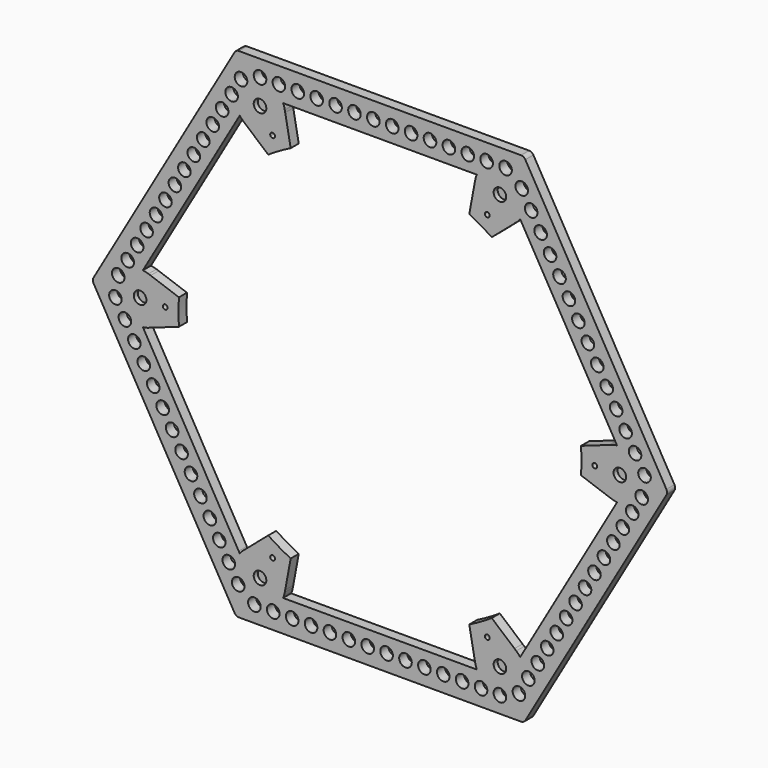
from build123d import *

# Parameters (mm, degrees)
F0_R     = 3.175
F1_DEPTH = 5.08
F2_DEPTH = 2.54
F3_R     = 3.175
F4_DEPTH = 5.08
F5_R     = 101.6
F6_DEPTH = 5.08


with BuildPart() as f1:
    # F0 (on Front) → F1 (new body)
    with BuildSketch(Plane.XZ):
        with BuildLine():
            Line((71.1237796615, 125.73), (-71.1237796615, 125.73))
            ThreePointArc((-71.1237796615, 125.73), (-72.3937796615, 125.3897045256), (-73.3234841871, 124.46))
            Line((-73.3234841871, 124.46), (-144.4472638486, 1.27))
            ThreePointArc((-144.4472638486, 1.27), (-144.7875593229, 0), (-144.4472638486, -1.27))
            Line((-144.4472638486, -1.27), (-73.3234841871, -124.46))
            ThreePointArc((-73.3234841871, -124.46), (-72.3937796615, -125.3897045256), (-71.1237796615, -125.73))
            Line((-71.1237796615, -125.73), (71.1237796615, -125.73))
            ThreePointArc((71.1237796615, -125.73), (72.3937796615, -125.3897045256), (73.3234841871, -124.46))
            Line((73.3234841871, -124.46), (144.4472638486, -1.27))
            ThreePointArc((144.4472638486, -1.27), (144.7875593229, 0), (144.4472638486, 1.27))
            Line((144.4472638486, 1.27), (73.3234841871, 124.46))
            ThreePointArc((73.3234841871, 124.46), (72.3937796615, 125.3897045256), (71.1237796615, 125.73))
        make_face()
        with BuildLine():
            Line((-48.8521321892, 109.855), (-47.7918744543, 109.855))
            Line((-47.7918744543, 109.855), (47.7918744543, 109.855))
            Line((47.7918744543, 109.855), (48.8521321892, 109.855))
            ThreePointArc((48.8521321892, 109.855), (63.0866069292, 117.2071101742), (73.1918744543, 104.775))
            ThreePointArc((73.1918744543, 104.775), (72.5557639253, 100.8060491521), (70.7111546382, 97.2346875048))
            Line((70.7111546382, 97.2346875048), (71.2412835056, 96.3164773719))
            Line((71.2412835056, 96.3164773719), (119.0331579599, 13.5385226281))
            Line((119.0331579599, 13.5385226281), (119.5632868273, 12.6203124952))
            ThreePointArc((119.5632868273, 12.6203124952), (129.446908235, 9.4691569961), (133.6837489087, 0))
            ThreePointArc((133.6837489087, 0), (129.446908235, -9.4691569961), (119.5632868273, -12.6203124952))
            Line((119.5632868273, -12.6203124952), (119.0331579599, -13.5385226281))
            Line((119.0331579599, -13.5385226281), (71.2412835056, -96.3164773719))
            Line((71.2412835056, -96.3164773719), (70.7111546382, -97.2346875048))
            ThreePointArc((70.7111546382, -97.2346875048), (72.5557639253, -100.8060491521), (73.1918744543, -104.775))
            ThreePointArc((73.1918744543, -104.775), (63.0866069292, -117.2071101742), (48.8521321892, -109.855))
            Line((48.8521321892, -109.855), (47.7918744543, -109.855))
            Line((47.7918744543, -109.855), (-47.7918744543, -109.855))
            Line((-47.7918744543, -109.855), (-48.8521321892, -109.855))
            ThreePointArc((-48.8521321892, -109.855), (-66.8418744543, -115.7735226281), (-70.7111546382, -97.2346875048))
            Line((-70.7111546382, -97.2346875048), (-71.2412835056, -96.3164773719))
            Line((-71.2412835056, -96.3164773719), (-119.0331579599, -13.5385226281))
            Line((-119.0331579599, -13.5385226281), (-119.5632868273, -12.6203124952))
            ThreePointArc((-119.5632868273, -12.6203124952), (-133.6837489087, 0), (-119.5632868273, 12.6203124952))
            Line((-119.5632868273, 12.6203124952), (-119.0331579599, 13.5385226281))
            Line((-119.0331579599, 13.5385226281), (-71.2412835056, 96.3164773719))
            Line((-71.2412835056, 96.3164773719), (-70.7111546382, 97.2346875048))
            ThreePointArc((-70.7111546382, 97.2346875048), (-66.8418744543, 115.7735226281), (-48.8521321892, 109.855))
        make_face(mode=Mode.SUBTRACT)
        with BuildLine():
            ThreePointArc((-48.0057012099, 107.0956632047), (-48.3502751082, 108.4994550364), (-48.8521321892, 109.855))
            Line((-48.8521321892, 109.855), (-63.4248138218, 109.855))
            Line((-63.4248138218, 109.855), (-70.7111546382, 97.2346875048))
            ThreePointArc((-70.7111546382, 97.2346875048), (-69.7881468042, 96.1222940419), (-68.7447143655, 95.1219883766))
            ThreePointArc((-68.7447143655, 95.1219883766), (-67.8242228731, 94.4054934222), (-66.8418744543, 93.7764773719))
            ThreePointArc((-66.8418744543, 93.7764773719), (-61.0951244543, 92.0893352781), (-55.2142090811, 93.223539131))
            ThreePointArc((-55.2142090811, 93.223539131), (-54.7451244543, 94.8213370216), (-53.1268485776, 94.4286772796))
            ThreePointArc((-53.1268485776, 94.4286772796), (-49.2041415413, 98.9545974639), (-47.7918744543, 104.775))
            ThreePointArc((-47.7918744543, 104.775), (-47.8454441239, 105.9402467111), (-48.0057012099, 107.0956632047))
        make_face()
        with Locations((-60.4918744543, 104.775)):
            Circle(F0_R, mode=Mode.SUBTRACT)
        with BuildLine():
            Line((63.4248138218, 109.855), (48.8521321892, 109.855))
            ThreePointArc((48.8521321892, 109.855), (48.3502751082, 108.4994550364), (48.0057012099, 107.0956632047))
            ThreePointArc((48.0057012099, 107.0956632047), (47.8454441239, 105.9402467111), (47.7918744543, 104.775))
            ThreePointArc((47.7918744543, 104.775), (49.2041415412, 98.9545974639), (53.1268485776, 94.4286772796))
            ThreePointArc((53.1268485776, 94.4286772796), (54.4817373162, 94.9341195814), (55.3483744543, 93.7764773719))
            ThreePointArc((55.3483744543, 93.7764773719), (55.3143534472, 93.4919861394), (55.2142090811, 93.223539131))
            ThreePointArc((55.2142090811, 93.223539131), (61.0951244543, 92.0893352781), (66.8418744543, 93.7764773719))
            ThreePointArc((66.8418744543, 93.7764773719), (67.8242228731, 94.4054934222), (68.7447143655, 95.1219883766))
            ThreePointArc((68.7447143655, 95.1219883766), (69.7881468042, 96.1222940419), (70.7111546382, 97.2346875048))
            Line((70.7111546382, 97.2346875048), (63.4248138218, 109.855))
        make_face()
        with Locations((60.4918744543, 104.775)):
            Circle(F0_R, mode=Mode.SUBTRACT)
        with BuildLine():
            ThreePointArc((-68.7447143655, -95.1219883766), (-69.7881468042, -96.1222940419), (-70.7111546382, -97.2346875048))
            Line((-70.7111546382, -97.2346875048), (-63.4248138218, -109.855))
            Line((-63.4248138218, -109.855), (-48.8521321892, -109.855))
            ThreePointArc((-48.8521321892, -109.855), (-48.3502751082, -108.4994550364), (-48.0057012099, -107.0956632047))
            ThreePointArc((-48.0057012099, -107.0956632047), (-47.8454441239, -105.9402467111), (-47.7918744543, -104.775))
            ThreePointArc((-47.7918744543, -104.775), (-49.2041415412, -98.9545974639), (-53.1268485776, -94.4286772796))
            ThreePointArc((-53.1268485776, -94.4286772796), (-54.7451244543, -94.8213370216), (-55.2142090811, -93.223539131))
            ThreePointArc((-55.2142090811, -93.223539131), (-61.0951244543, -92.0893352781), (-66.8418744543, -93.7764773719))
            ThreePointArc((-66.8418744543, -93.7764773719), (-67.8242228731, -94.4054934222), (-68.7447143655, -95.1219883766))
        make_face()
        with Locations((-60.4918744543, -104.775)):
            Circle(F0_R, mode=Mode.SUBTRACT)
        with BuildLine():
            Line((63.4248138218, -109.855), (70.7111546382, -97.2346875048))
            ThreePointArc((70.7111546382, -97.2346875048), (69.7881468042, -96.1222940419), (68.7447143655, -95.1219883766))
            ThreePointArc((68.7447143655, -95.1219883766), (67.8242228731, -94.4054934222), (66.8418744543, -93.7764773719))
            ThreePointArc((66.8418744543, -93.7764773719), (61.0951244543, -92.0893352781), (55.2142090811, -93.223539131))
            ThreePointArc((55.2142090811, -93.223539131), (55.3143534472, -93.4919861394), (55.3483744543, -93.7764773719))
            ThreePointArc((55.3483744543, -93.7764773719), (54.4817373162, -94.9341195814), (53.1268485776, -94.4286772796))
            ThreePointArc((53.1268485776, -94.4286772796), (49.2041415413, -98.9545974639), (47.7918744543, -104.775))
            ThreePointArc((47.7918744543, -104.775), (47.8454441239, -105.9402467111), (48.0057012099, -107.0956632047))
            ThreePointArc((48.0057012099, -107.0956632047), (48.3502751082, -108.4994550364), (48.8521321892, -109.855))
            Line((48.8521321892, -109.855), (63.4248138218, -109.855))
        make_face()
        with Locations((60.4918744543, -104.775)):
            Circle(F0_R, mode=Mode.SUBTRACT)
        with BuildLine():
            Line((126.8496276437, 0), (119.5632868273, 12.6203124952))
            ThreePointArc((119.5632868273, 12.6203124952), (118.1384219124, 12.3771609945), (116.7504155754, 11.9736748281))
            ThreePointArc((116.7504155754, 11.9736748281), (115.669666997, 11.5347532889), (114.6337489087, 10.9985226281))
            ThreePointArc((114.6337489087, 10.9985226281), (110.2992659956, 6.8652621858), (108.3410576587, 1.2051381486))
            ThreePointArc((108.3410576587, 1.2051381486), (109.1568998856, 0.832616131), (109.4902489087, 0))
            ThreePointArc((109.4902489087, 0), (109.1568998856, -0.832616131), (108.3410576587, -1.2051381486))
            ThreePointArc((108.3410576587, -1.2051381486), (110.2992659956, -6.8652621858), (114.6337489087, -10.9985226281))
            ThreePointArc((114.6337489087, -10.9985226281), (115.669666997, -11.5347532889), (116.7504155754, -11.9736748281))
            ThreePointArc((116.7504155754, -11.9736748281), (118.1384219124, -12.3771609945), (119.5632868273, -12.6203124952))
            Line((119.5632868273, -12.6203124952), (126.8496276437, 0))
        make_face()
        with Locations((120.9837489087, 0)):
            Circle(F0_R, mode=Mode.SUBTRACT)
        with BuildLine():
            ThreePointArc((-116.7504155754, 11.9736748281), (-118.1384219124, 12.3771609945), (-119.5632868273, 12.6203124952))
            Line((-119.5632868273, 12.6203124952), (-126.8496276437, 0))
            Line((-126.8496276437, 0), (-119.5632868273, -12.6203124952))
            ThreePointArc((-119.5632868273, -12.6203124952), (-118.1384219124, -12.3771609945), (-116.7504155754, -11.9736748281))
            ThreePointArc((-116.7504155754, -11.9736748281), (-115.669666997, -11.5347532889), (-114.6337489087, -10.9985226281))
            ThreePointArc((-114.6337489087, -10.9985226281), (-110.2992659956, -6.8652621858), (-108.3410576587, -1.2051381486))
            ThreePointArc((-108.3410576587, -1.2051381486), (-109.4902489087, 0), (-108.3410576587, 1.2051381486))
            ThreePointArc((-108.3410576587, 1.2051381486), (-110.2992659956, 6.8652621858), (-114.6337489087, 10.9985226281))
            ThreePointArc((-114.6337489087, 10.9985226281), (-115.669666997, 11.5347532889), (-116.7504155754, 11.9736748281))
        make_face()
        with Locations((-120.9837489087, 0)):
            Circle(F0_R, mode=Mode.SUBTRACT)
        with BuildLine():
            ThreePointArc((73.1918744543, 104.775), (63.0866069292, 117.2071101742), (48.8521321892, 109.855))
            Line((48.8521321892, 109.855), (63.4248138218, 109.855))
            Line((63.4248138218, 109.855), (70.7111546382, 97.2346875048))
            ThreePointArc((70.7111546382, 97.2346875048), (72.5557639253, 100.8060491521), (73.1918744543, 104.775))
        make_face()
        with BuildLine():
            Line((-63.4248138218, 109.855), (-48.8521321892, 109.855))
            ThreePointArc((-48.8521321892, 109.855), (-66.8418744543, 115.7735226281), (-70.7111546382, 97.2346875048))
            Line((-70.7111546382, 97.2346875048), (-63.4248138218, 109.855))
        make_face()
        with BuildLine():
            Line((-126.8496276437, 0), (-119.5632868273, 12.6203124952))
            ThreePointArc((-119.5632868273, 12.6203124952), (-133.6837489087, 0), (-119.5632868273, -12.6203124952))
            Line((-119.5632868273, -12.6203124952), (-126.8496276437, 0))
        make_face()
        with BuildLine():
            Line((-63.4248138218, -109.855), (-70.7111546382, -97.2346875048))
            ThreePointArc((-70.7111546382, -97.2346875048), (-66.8418744543, -115.7735226281), (-48.8521321892, -109.855))
            Line((-48.8521321892, -109.855), (-63.4248138218, -109.855))
        make_face()
        with BuildLine():
            ThreePointArc((73.1918744543, -104.775), (72.5557639253, -100.8060491521), (70.7111546382, -97.2346875048))
            Line((70.7111546382, -97.2346875048), (63.4248138218, -109.855))
            Line((63.4248138218, -109.855), (48.8521321892, -109.855))
            ThreePointArc((48.8521321892, -109.855), (63.0866069292, -117.2071101742), (73.1918744543, -104.775))
        make_face()
        with BuildLine():
            ThreePointArc((133.6837489087, 0), (129.446908235, 9.4691569961), (119.5632868273, 12.6203124952))
            Line((119.5632868273, 12.6203124952), (126.8496276437, 0))
            Line((126.8496276437, 0), (119.5632868273, -12.6203124952))
            ThreePointArc((119.5632868273, -12.6203124952), (129.446908235, -9.4691569961), (133.6837489087, 0))
        make_face()
        with BuildLine():
            Line((114.6337489087, 10.9985226281), (115.647156802, 11.5836139481))
            Line((115.647156802, 11.5836139481), (99.817082242, 5.986837414))
            ThreePointArc((99.817082242, 5.986837414), (95.5837489087, 0), (99.817082242, -5.986837414))
            Line((99.817082242, -5.986837414), (115.647156802, -11.5836139481))
            Line((115.647156802, -11.5836139481), (114.6337489087, -10.9985226281))
            ThreePointArc((114.6337489087, -10.9985226281), (110.2992659956, -6.8652621858), (108.3410576587, -1.2051381486))
            ThreePointArc((108.3410576587, -1.2051381486), (107.0772489087, 0), (108.3410576587, 1.2051381486))
            ThreePointArc((108.3410576587, 1.2051381486), (110.2992659956, 6.8652621858), (114.6337489087, 10.9985226281))
        make_face()
        with BuildLine():
            Line((66.8418744543, -93.7764773719), (67.8552823477, -94.361568692))
            Line((67.8552823477, -94.361568692), (55.0932944099, -83.4507102462))
            ThreePointArc((55.0932944099, -83.4507102462), (47.7918744543, -82.7779547439), (44.7237878321, -89.4375476603))
            Line((44.7237878321, -89.4375476603), (47.7918744543, -105.94518264))
            Line((47.7918744543, -105.94518264), (47.7918744543, -104.775))
            ThreePointArc((47.7918744543, -104.775), (49.2041415413, -98.9545974639), (53.1268485776, -94.4286772796))
            ThreePointArc((53.1268485776, -94.4286772796), (53.5386244543, -92.7316177223), (55.2142090811, -93.223539131))
            ThreePointArc((55.2142090811, -93.223539131), (61.0951244543, -92.0893352781), (66.8418744543, -93.7764773719))
        make_face()
        with BuildLine():
            Line((-55.0932944099, -83.4507102462), (-67.8552823477, -94.361568692))
            Line((-67.8552823477, -94.361568692), (-66.8418744543, -93.7764773719))
            ThreePointArc((-66.8418744543, -93.7764773719), (-61.0951244543, -92.0893352781), (-55.2142090811, -93.223539131))
            ThreePointArc((-55.2142090811, -93.223539131), (-53.8573832218, -92.6039983791), (-52.9353744543, -93.7764773719))
            ThreePointArc((-52.9353744543, -93.7764773719), (-52.9842322449, -94.1163402338), (-53.1268485776, -94.4286772796))
            ThreePointArc((-53.1268485776, -94.4286772796), (-49.2041415412, -98.9545974639), (-47.7918744543, -104.775))
            Line((-47.7918744543, -104.775), (-47.7918744543, -105.94518264))
            Line((-47.7918744543, -105.94518264), (-44.7237878321, -89.4375476603))
            ThreePointArc((-44.7237878321, -89.4375476603), (-47.7918744543, -82.7779547439), (-55.0932944099, -83.4507102462))
        make_face()
        with BuildLine():
            Line((-99.817082242, 5.986837414), (-115.647156802, 11.5836139481))
            Line((-115.647156802, 11.5836139481), (-114.6337489087, 10.9985226281))
            ThreePointArc((-114.6337489087, 10.9985226281), (-110.2992659956, 6.8652621858), (-108.3410576587, 1.2051381486))
            ThreePointArc((-108.3410576587, 1.2051381486), (-107.4511327777, 0.8731509769), (-107.0772489087, 0))
            ThreePointArc((-107.0772489087, 0), (-107.4511327777, -0.8731509769), (-108.3410576587, -1.2051381486))
            ThreePointArc((-108.3410576587, -1.2051381486), (-110.2992659956, -6.8652621858), (-114.6337489087, -10.9985226281))
            Line((-114.6337489087, -10.9985226281), (-115.647156802, -11.5836139481))
            Line((-115.647156802, -11.5836139481), (-99.817082242, -5.986837414))
            ThreePointArc((-99.817082242, -5.986837414), (-95.5837489087, 0), (-99.817082242, 5.986837414))
        make_face()
        with BuildLine():
            Line((-44.7237878321, 89.4375476603), (-47.7918744543, 105.94518264))
            Line((-47.7918744543, 105.94518264), (-47.7918744543, 104.775))
            ThreePointArc((-47.7918744543, 104.775), (-49.2041415413, 98.9545974639), (-53.1268485776, 94.4286772796))
            ThreePointArc((-53.1268485776, 94.4286772796), (-52.9842322449, 94.1163402338), (-52.9353744543, 93.7764773719))
            ThreePointArc((-52.9353744543, 93.7764773719), (-53.8573832218, 92.6039983791), (-55.2142090811, 93.223539131))
            ThreePointArc((-55.2142090811, 93.223539131), (-61.0951244543, 92.0893352781), (-66.8418744543, 93.7764773719))
            Line((-66.8418744543, 93.7764773719), (-67.8552823477, 94.361568692))
            Line((-67.8552823477, 94.361568692), (-55.0932944099, 83.4507102462))
            ThreePointArc((-55.0932944099, 83.4507102462), (-47.7918744543, 82.7779547439), (-44.7237878321, 89.4375476603))
        make_face()
        with BuildLine():
            Line((47.7918744543, 104.775), (47.7918744543, 105.94518264))
            Line((47.7918744543, 105.94518264), (44.7237878321, 89.4375476603))
            ThreePointArc((44.7237878321, 89.4375476603), (47.7918744543, 82.7779547439), (55.0932944099, 83.4507102462))
            Line((55.0932944099, 83.4507102462), (67.8552823477, 94.361568692))
            Line((67.8552823477, 94.361568692), (66.8418744543, 93.7764773719))
            ThreePointArc((66.8418744543, 93.7764773719), (61.0951244543, 92.0893352781), (55.2142090811, 93.223539131))
            ThreePointArc((55.2142090811, 93.223539131), (53.5386244543, 92.7316177223), (53.1268485776, 94.4286772796))
            ThreePointArc((53.1268485776, 94.4286772796), (49.2041415412, 98.9545974639), (47.7918744543, 104.775))
        make_face()
        with BuildLine():
            Line((-44.7237878321, 89.4375476603), (-47.7918744543, 105.94518264))
            Line((-47.7918744543, 105.94518264), (-47.7918744543, 104.775))
            ThreePointArc((-47.7918744543, 104.775), (-49.2041415413, 98.9545974639), (-53.1268485776, 94.4286772796))
            ThreePointArc((-53.1268485776, 94.4286772796), (-52.9842322449, 94.1163402338), (-52.9353744543, 93.7764773719))
            ThreePointArc((-52.9353744543, 93.7764773719), (-53.8573832218, 92.6039983791), (-55.2142090811, 93.223539131))
            ThreePointArc((-55.2142090811, 93.223539131), (-61.0951244543, 92.0893352781), (-66.8418744543, 93.7764773719))
            Line((-66.8418744543, 93.7764773719), (-67.8552823477, 94.361568692))
            Line((-67.8552823477, 94.361568692), (-55.0932944099, 83.4507102462))
            ThreePointArc((-55.0932944099, 83.4507102462), (-47.7918744543, 82.7779547439), (-44.7237878321, 89.4375476603))
        make_face()
        with BuildLine():
            Line((47.7918744543, 104.775), (47.7918744543, 105.94518264))
            Line((47.7918744543, 105.94518264), (44.7237878321, 89.4375476603))
            ThreePointArc((44.7237878321, 89.4375476603), (47.7918744543, 82.7779547439), (55.0932944099, 83.4507102462))
            Line((55.0932944099, 83.4507102462), (67.8552823477, 94.361568692))
            Line((67.8552823477, 94.361568692), (66.8418744543, 93.7764773719))
            ThreePointArc((66.8418744543, 93.7764773719), (61.0951244543, 92.0893352781), (55.2142090811, 93.223539131))
            ThreePointArc((55.2142090811, 93.223539131), (53.5386244543, 92.7316177223), (53.1268485776, 94.4286772796))
            ThreePointArc((53.1268485776, 94.4286772796), (49.2041415412, 98.9545974639), (47.7918744543, 104.775))
        make_face()
        with BuildLine():
            Line((114.6337489087, 10.9985226281), (115.647156802, 11.5836139481))
            Line((115.647156802, 11.5836139481), (99.817082242, 5.986837414))
            ThreePointArc((99.817082242, 5.986837414), (95.5837489087, 0), (99.817082242, -5.986837414))
            Line((99.817082242, -5.986837414), (115.647156802, -11.5836139481))
            Line((115.647156802, -11.5836139481), (114.6337489087, -10.9985226281))
            ThreePointArc((114.6337489087, -10.9985226281), (110.2992659956, -6.8652621858), (108.3410576587, -1.2051381486))
            ThreePointArc((108.3410576587, -1.2051381486), (107.0772489087, 0), (108.3410576587, 1.2051381486))
            ThreePointArc((108.3410576587, 1.2051381486), (110.2992659956, 6.8652621858), (114.6337489087, 10.9985226281))
        make_face()
        with BuildLine():
            Line((-55.0932944099, -83.4507102462), (-67.8552823477, -94.361568692))
            Line((-67.8552823477, -94.361568692), (-66.8418744543, -93.7764773719))
            ThreePointArc((-66.8418744543, -93.7764773719), (-61.0951244543, -92.0893352781), (-55.2142090811, -93.223539131))
            ThreePointArc((-55.2142090811, -93.223539131), (-53.8573832218, -92.6039983791), (-52.9353744543, -93.7764773719))
            ThreePointArc((-52.9353744543, -93.7764773719), (-52.9842322449, -94.1163402338), (-53.1268485776, -94.4286772796))
            ThreePointArc((-53.1268485776, -94.4286772796), (-49.2041415412, -98.9545974639), (-47.7918744543, -104.775))
            Line((-47.7918744543, -104.775), (-47.7918744543, -105.94518264))
            Line((-47.7918744543, -105.94518264), (-44.7237878321, -89.4375476603))
            ThreePointArc((-44.7237878321, -89.4375476603), (-47.7918744543, -82.7779547439), (-55.0932944099, -83.4507102462))
        make_face()
        with BuildLine():
            Line((66.8418744543, -93.7764773719), (67.8552823477, -94.361568692))
            Line((67.8552823477, -94.361568692), (55.0932944099, -83.4507102462))
            ThreePointArc((55.0932944099, -83.4507102462), (47.7918744543, -82.7779547439), (44.7237878321, -89.4375476603))
            Line((44.7237878321, -89.4375476603), (47.7918744543, -105.94518264))
            Line((47.7918744543, -105.94518264), (47.7918744543, -104.775))
            ThreePointArc((47.7918744543, -104.775), (49.2041415413, -98.9545974639), (53.1268485776, -94.4286772796))
            ThreePointArc((53.1268485776, -94.4286772796), (53.5386244543, -92.7316177223), (55.2142090811, -93.223539131))
            ThreePointArc((55.2142090811, -93.223539131), (61.0951244543, -92.0893352781), (66.8418744543, -93.7764773719))
        make_face()
        with BuildLine():
            Line((-99.817082242, 5.986837414), (-115.647156802, 11.5836139481))
            Line((-115.647156802, 11.5836139481), (-114.6337489087, 10.9985226281))
            ThreePointArc((-114.6337489087, 10.9985226281), (-110.2992659956, 6.8652621858), (-108.3410576587, 1.2051381486))
            ThreePointArc((-108.3410576587, 1.2051381486), (-107.4511327777, 0.8731509769), (-107.0772489087, 0))
            ThreePointArc((-107.0772489087, 0), (-107.4511327777, -0.8731509769), (-108.3410576587, -1.2051381486))
            ThreePointArc((-108.3410576587, -1.2051381486), (-110.2992659956, -6.8652621858), (-114.6337489087, -10.9985226281))
            Line((-114.6337489087, -10.9985226281), (-115.647156802, -11.5836139481))
            Line((-115.647156802, -11.5836139481), (-99.817082242, -5.986837414))
            ThreePointArc((-99.817082242, -5.986837414), (-95.5837489087, 0), (-99.817082242, 5.986837414))
        make_face()
        with BuildLine():
            Line((116.7504155754, 11.9736748281), (115.647156802, 11.5836139481))
            Line((115.647156802, 11.5836139481), (114.6337489087, 10.9985226281))
            ThreePointArc((114.6337489087, 10.9985226281), (115.669666997, 11.5347532889), (116.7504155754, 11.9736748281))
        make_face()
        with BuildLine():
            Line((47.7918744543, -104.775), (47.7918744543, -105.94518264))
            Line((47.7918744543, -105.94518264), (48.0057012099, -107.0956632047))
            ThreePointArc((48.0057012099, -107.0956632047), (47.8454441239, -105.9402467111), (47.7918744543, -104.775))
        make_face()
        with BuildLine():
            ThreePointArc((-47.7918744543, -104.775), (-47.8454441239, -105.9402467111), (-48.0057012099, -107.0956632047))
            Line((-48.0057012099, -107.0956632047), (-47.7918744543, -105.94518264))
            Line((-47.7918744543, -105.94518264), (-47.7918744543, -104.775))
        make_face()
        with BuildLine():
            Line((-114.6337489087, 10.9985226281), (-115.647156802, 11.5836139481))
            Line((-115.647156802, 11.5836139481), (-116.7504155754, 11.9736748281))
            ThreePointArc((-116.7504155754, 11.9736748281), (-115.669666997, 11.5347532889), (-114.6337489087, 10.9985226281))
        make_face()
        with BuildLine():
            ThreePointArc((-66.8418744543, 93.7764773719), (-67.8242228731, 94.4054934222), (-68.7447143655, 95.1219883766))
            Line((-68.7447143655, 95.1219883766), (-67.8552823477, 94.361568692))
            Line((-67.8552823477, 94.361568692), (-66.8418744543, 93.7764773719))
        make_face()
        with BuildLine():
            Line((48.0057012099, 107.0956632047), (47.7918744543, 105.94518264))
            Line((47.7918744543, 105.94518264), (47.7918744543, 104.775))
            ThreePointArc((47.7918744543, 104.775), (47.8454441239, 105.9402467111), (48.0057012099, 107.0956632047))
        make_face()
    extrude(amount=F1_DEPTH)

    # F0 (on Front) → F2 (join)
    with BuildSketch(Plane.XZ):
        with Locations((-60.4918744543, 104.775)):
            Circle(F0_R)
        with Locations((60.4918744543, 104.775)):
            Circle(F0_R)
        with Locations((-120.9837489087, 0)):
            Circle(F0_R)
        with Locations((-60.4918744543, -104.775)):
            Circle(F0_R)
        with Locations((60.4918744543, -104.775)):
            Circle(F0_R)
        with Locations((120.9837489087, 0)):
            Circle(F0_R)
    extrude(amount=F2_DEPTH)

    # F3 (on face) → F4 (cut, through all)
    with BuildSketch(Plane.XZ.offset(5.08)):
        with Locations((-60.4918744543, 117.475)):
            Circle(F3_R)
        with Locations((-50.9668744543, 117.475)):
            Circle(F3_R)
        with Locations((-41.4418744543, 117.475)):
            Circle(F3_R)
        with Locations((-31.9168744543, 117.475)):
            Circle(F3_R)
        with Locations((-22.3918744543, 117.475)):
            Circle(F3_R)
        with Locations((-12.8668744543, 117.475)):
            Circle(F3_R)
        with Locations((-3.3418744543, 117.475)):
            Circle(F3_R)
        with Locations((6.1831255457, 117.475)):
            Circle(F3_R)
        with Locations((15.7081255457, 117.475)):
            Circle(F3_R)
        with Locations((25.2331255457, 117.475)):
            Circle(F3_R)
        with Locations((34.7581255457, 117.475)):
            Circle(F3_R)
        with Locations((44.2831255457, 117.475)):
            Circle(F3_R)
        with Locations((53.8081255457, 117.475)):
            Circle(F3_R)
        with Locations((63.3331255457, 117.475)):
            Circle(F3_R)
        with Locations((-131.9822715367, 6.35)):
            Circle(F3_R)
        with Locations((-127.2197715367, 14.598891971)):
            Circle(F3_R)
        with Locations((-122.4572715367, 22.8477839421)):
            Circle(F3_R)
        with Locations((-117.6947715367, 31.0966759131)):
            Circle(F3_R)
        with Locations((-112.9322715367, 39.3455678842)):
            Circle(F3_R)
        with Locations((-108.1697715367, 47.5944598552)):
            Circle(F3_R)
        with Locations((-103.4072715367, 55.8433518263)):
            Circle(F3_R)
        with Locations((-98.6447715367, 64.0922437973)):
            Circle(F3_R)
        with Locations((-93.8822715367, 72.3411357684)):
            Circle(F3_R)
        with Locations((-89.1197715367, 80.5900277394)):
            Circle(F3_R)
        with Locations((-84.3572715367, 88.8389197105)):
            Circle(F3_R)
        with Locations((-79.5947715367, 97.0878116815)):
            Circle(F3_R)
        with Locations((-74.8322715367, 105.3367036526)):
            Circle(F3_R)
        with Locations((-70.0697715367, 113.5855956236)):
            Circle(F3_R)
        with Locations((-71.4903970824, -111.125)):
            Circle(F3_R)
        with Locations((-76.2528970824, -102.876108029)):
            Circle(F3_R)
        with Locations((-81.0153970824, -94.6272160579)):
            Circle(F3_R)
        with Locations((-85.7778970824, -86.3783240869)):
            Circle(F3_R)
        with Locations((-90.5403970824, -78.1294321158)):
            Circle(F3_R)
        with Locations((-95.3028970824, -69.8805401448)):
            Circle(F3_R)
        with Locations((-100.0653970824, -61.6316481737)):
            Circle(F3_R)
        with Locations((-104.8278970824, -53.3827562027)):
            Circle(F3_R)
        with Locations((-109.5903970824, -45.1338642316)):
            Circle(F3_R)
        with Locations((-114.3528970824, -36.8849722606)):
            Circle(F3_R)
        with Locations((-119.1153970824, -28.6360802895)):
            Circle(F3_R)
        with Locations((-123.8778970824, -20.3871883185)):
            Circle(F3_R)
        with Locations((-128.6403970824, -12.1382963474)):
            Circle(F3_R)
        with Locations((-133.4028970824, -3.8894043764)):
            Circle(F3_R)
        with Locations((60.4918744543, -117.475)):
            Circle(F3_R)
        with Locations((50.9668744543, -117.475)):
            Circle(F3_R)
        with Locations((41.4418744543, -117.475)):
            Circle(F3_R)
        with Locations((31.9168744543, -117.475)):
            Circle(F3_R)
        with Locations((22.3918744543, -117.475)):
            Circle(F3_R)
        with Locations((12.8668744543, -117.475)):
            Circle(F3_R)
        with Locations((3.3418744543, -117.475)):
            Circle(F3_R)
        with Locations((-6.1831255457, -117.475)):
            Circle(F3_R)
        with Locations((-15.7081255457, -117.475)):
            Circle(F3_R)
        with Locations((-25.2331255457, -117.475)):
            Circle(F3_R)
        with Locations((-34.7581255457, -117.475)):
            Circle(F3_R)
        with Locations((-44.2831255457, -117.475)):
            Circle(F3_R)
        with Locations((-53.8081255457, -117.475)):
            Circle(F3_R)
        with Locations((-63.3331255457, -117.475)):
            Circle(F3_R)
        with Locations((131.9822715367, -6.35)):
            Circle(F3_R)
        with Locations((127.2197715367, -14.598891971)):
            Circle(F3_R)
        with Locations((122.4572715367, -22.8477839421)):
            Circle(F3_R)
        with Locations((117.6947715367, -31.0966759131)):
            Circle(F3_R)
        with Locations((112.9322715367, -39.3455678842)):
            Circle(F3_R)
        with Locations((108.1697715367, -47.5944598552)):
            Circle(F3_R)
        with Locations((103.4072715367, -55.8433518263)):
            Circle(F3_R)
        with Locations((98.6447715367, -64.0922437973)):
            Circle(F3_R)
        with Locations((93.8822715367, -72.3411357684)):
            Circle(F3_R)
        with Locations((89.1197715367, -80.5900277394)):
            Circle(F3_R)
        with Locations((84.3572715367, -88.8389197105)):
            Circle(F3_R)
        with Locations((79.5947715367, -97.0878116815)):
            Circle(F3_R)
        with Locations((74.8322715367, -105.3367036526)):
            Circle(F3_R)
        with Locations((70.0697715367, -113.5855956236)):
            Circle(F3_R)
        with Locations((71.4903970824, 111.125)):
            Circle(F3_R)
        with Locations((76.2528970824, 102.876108029)):
            Circle(F3_R)
        with Locations((81.0153970824, 94.6272160579)):
            Circle(F3_R)
        with Locations((85.7778970824, 86.3783240869)):
            Circle(F3_R)
        with Locations((90.5403970824, 78.1294321158)):
            Circle(F3_R)
        with Locations((95.3028970824, 69.8805401448)):
            Circle(F3_R)
        with Locations((100.0653970824, 61.6316481737)):
            Circle(F3_R)
        with Locations((104.8278970824, 53.3827562027)):
            Circle(F3_R)
        with Locations((109.5903970824, 45.1338642316)):
            Circle(F3_R)
        with Locations((114.3528970824, 36.8849722606)):
            Circle(F3_R)
        with Locations((119.1153970824, 28.6360802895)):
            Circle(F3_R)
        with Locations((123.8778970824, 20.3871883185)):
            Circle(F3_R)
        with Locations((128.6403970824, 12.1382963474)):
            Circle(F3_R)
        with Locations((133.4028970824, 3.8894043764)):
            Circle(F3_R)
    extrude(amount=-F4_DEPTH, mode=Mode.SUBTRACT)

    # F5 (on face) → F6 (cut, through all)
    with BuildSketch(Plane.XZ.offset(5.08)):
        Circle(F5_R)
    extrude(amount=-F6_DEPTH, mode=Mode.SUBTRACT)


solid = f1.part
